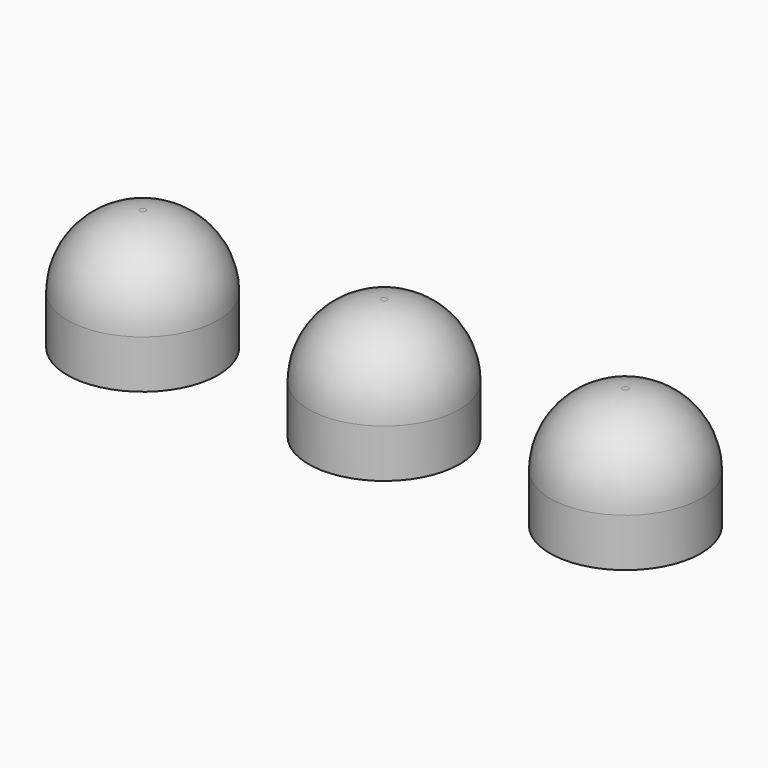
from build123d import *

# Parameters (mm, degrees)
F0_R     = 3.175
F3_DEPTH = 5.08
F1_R     = 3.175
F4_DEPTH = 5.08
F2_R     = 3.175
F5_DEPTH = 5.08
F6_R     = 3.048
F7_R     = 3.048
F7_2_R   = 3.048


with BuildPart() as f3:
    # F0 (on Top) → F3 (new body)
    with BuildSketch(Plane.XY):
        with Locations((-10.16, 0)):
            Circle(F0_R)
    extrude(amount=F3_DEPTH)

    # F6
    f6_edges = [f3.edges().sort_by_distance(p)[0] for p in [
        (-13.335, 0, 5.08),
    ]]
    fillet(f6_edges, radius=F6_R)


with BuildPart() as f4:
    # F1 (on Top) → F4 (new body)
    with BuildSketch(Plane.XY):
        Circle(F1_R)
    extrude(amount=F4_DEPTH)

    # F7
    f7_edges = [f4.edges().sort_by_distance(p)[0] for p in [
        (-3.175, 0, 5.08),
    ]]
    fillet(f7_edges, radius=F7_R)


with BuildPart() as f5:
    # F2 (on Top) → F5 (new body)
    with BuildSketch(Plane.XY):
        with Locations((10.16, 0)):
            Circle(F2_R)
    extrude(amount=F5_DEPTH)

    # F7#2
    f7_2_edges = [f5.edges().sort_by_distance(p)[0] for p in [
        (6.985, 0, 5.08),
    ]]
    fillet(f7_2_edges, radius=F7_2_R)


solid = Compound([f3.part, f4.part, f5.part])
